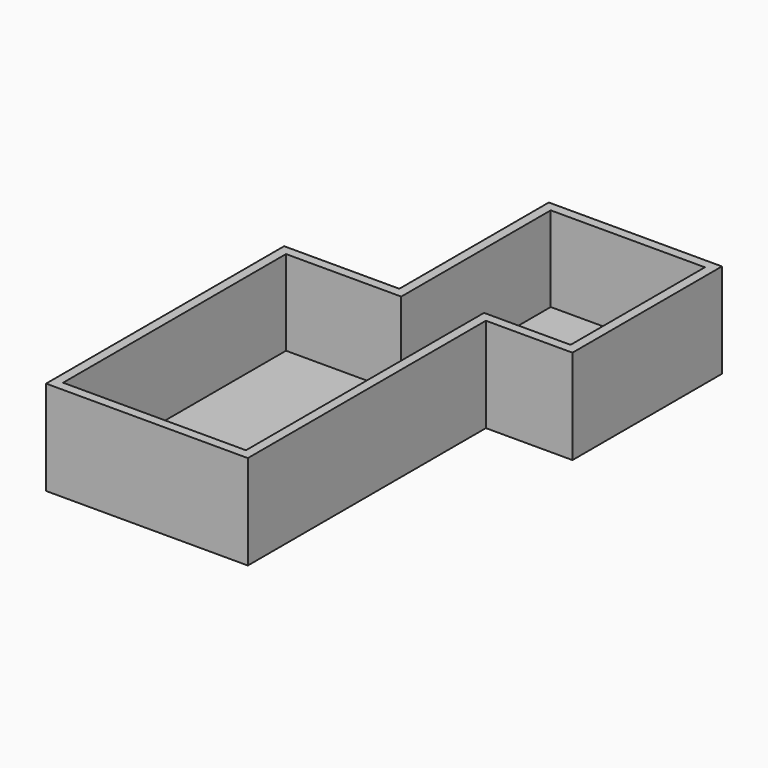
from build123d import *

# Parameters (mm, degrees)
F1_DEPTH = 25.4
F2_T     = -2.54


with BuildPart() as f1:
    # F0 (on Top) → F1 (new body)
    with BuildSketch(Plane.XY):
        Polygon((0, 130.1105469465), (0, 79.9251422286), (23.2478752732, 79.9251422286), (46.4957505465, 79.9251422286), (46.4957505465, 130.1105469465), align=None)
        Polygon((23.2478752732, 79.9251422286), (0, 79.9251422286), (-30.9502854943, 79.9251422286), (-30.9502854943, 0), (23.2478752732, 0), align=None)
    extrude(amount=F1_DEPTH)

    # F2
    f2_openings = [f1.faces().sort_by_distance(p)[0] for p in [
        (5.635859, 62.737644, 25.4),
    ]]
    offset(amount=F2_T, openings=f2_openings, kind=Kind.INTERSECTION)


solid = f1.part
